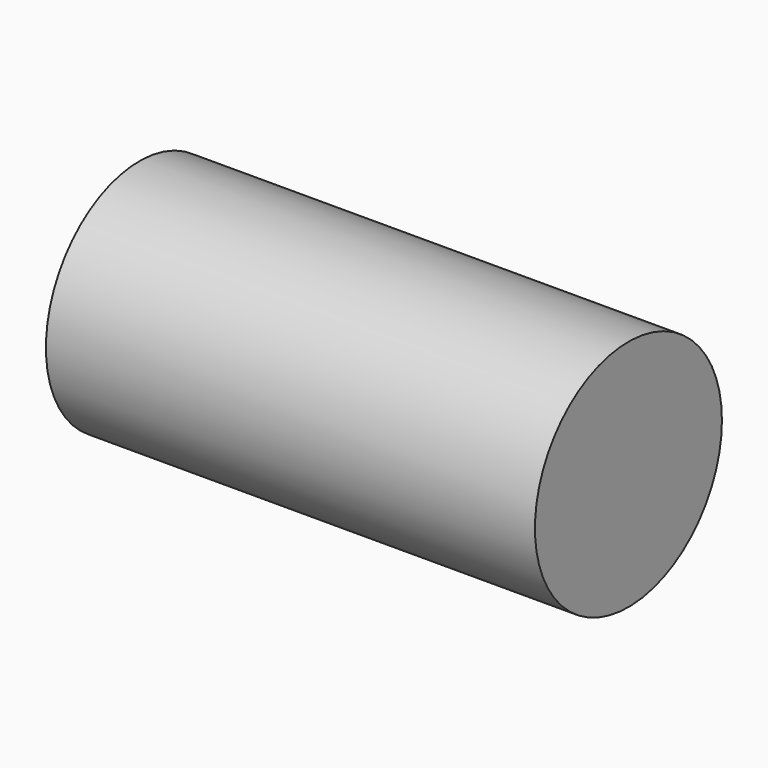
from build123d import *

# Parameters (mm, degrees)
F0_R     = 13.3987059817
F1_DEPTH = 64.516
F3_R     = 14.8099324152
F4_DEPTH = 61.976


with BuildPart() as f1:
    # F0 (on Top) → F1 (new body)
    with BuildSketch(Plane.XY):
        Circle(F0_R)
    extrude(amount=F1_DEPTH)


with BuildPart() as f4:
    # F3 (on Right) → F4 (new body)
    with BuildSketch(Plane.YZ):
        with Locations((-0.4007364958, 1.1823429543)):
            Circle(F3_R)
    extrude(amount=F4_DEPTH)


solid = f4.part
